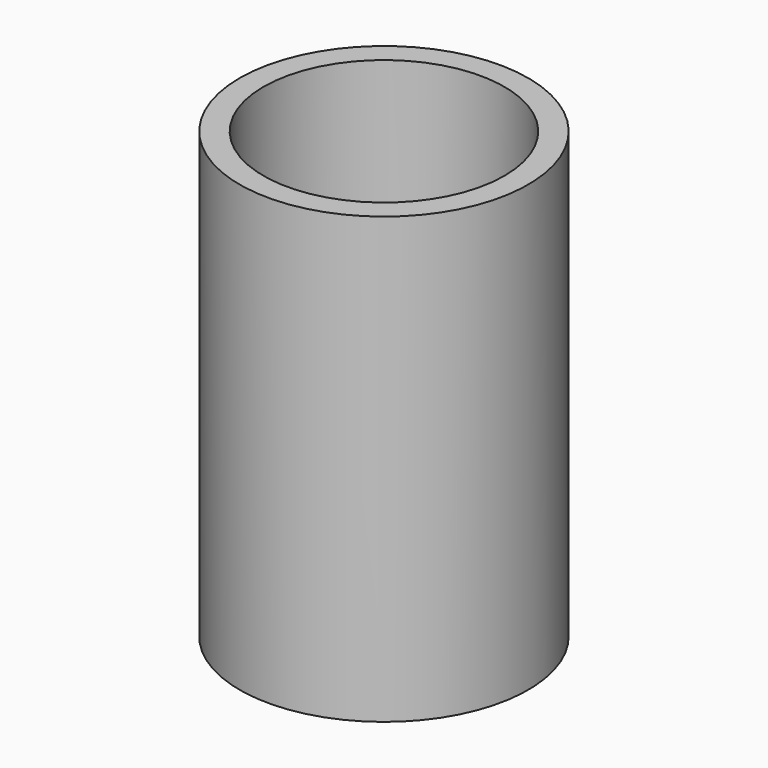
from build123d import *

# Parameters (mm, degrees)
F0_W = 25.3583602607
F0_H = 88.6085294187
F2_T = 5


with BuildPart() as f1:
    # F0 (on Front) → F1 (revolve)
    with BuildSketch(Plane.XZ):
        with Locations((-12.6791801304, -2.1860655397)):
            Rectangle(F0_W, F0_H)
    revolve(axis=Axis((0, 0, -2.1860655397), (0, 0, -1)))

    # F2
    f2_openings = [f1.faces().sort_by_distance(p)[0] for p in [
        (0, 0, 42.118199),
    ]]
    offset(amount=F2_T, openings=f2_openings, kind=Kind.INTERSECTION)


solid = f1.part
